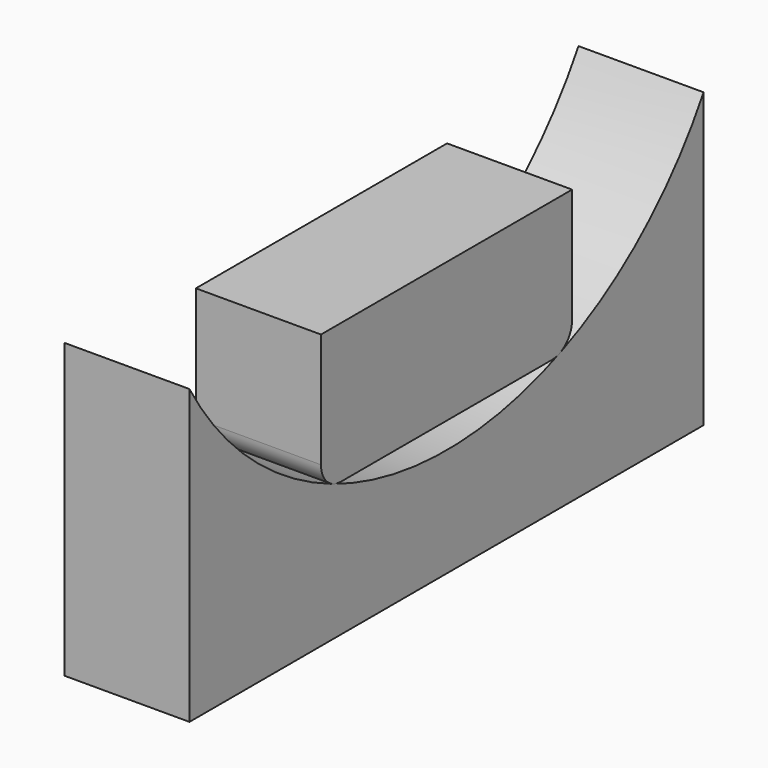
from build123d import *

# Parameters (mm, degrees)
F1_DEPTH = 25
F3_DEPTH = 25


with BuildPart() as f1:
    # F0 (on Right) → F1 (new body)
    with BuildSketch(Plane.YZ):
        with BuildLine():
            ThreePointArc((64.22542, 0), (0, -36.894254), (-64.22542, 0))
            Line((-64.22542, 0), (-64.22542, -58.576524))
            Line((-64.22542, -58.576524), (64.22542, -58.576524))
            Line((64.22542, -58.576524), (64.22542, 0))
        make_face()
    extrude(amount=F1_DEPTH)


with BuildPart() as f3:
    # F2 (on Right) → F3 (new body)
    with BuildSketch(Plane.YZ):
        with BuildLine():
            Line((31.371614, -3.762936), (-31.371614, -3.762936))
            Line((-31.371614, -3.762936), (-31.371614, -26.684324))
            ThreePointArc((-31.371614, -26.684324), (-29.907148, -30.219857), (-26.371614, -31.684324))
            Line((-26.371614, -31.684324), (26.371614, -31.684324))
            ThreePointArc((26.371614, -31.684324), (29.907148, -30.219857), (31.371614, -26.684324))
            Line((31.371614, -26.684324), (31.371614, -3.762936))
        make_face()
    extrude(amount=F3_DEPTH)


solid = Compound([f1.part, f3.part])
